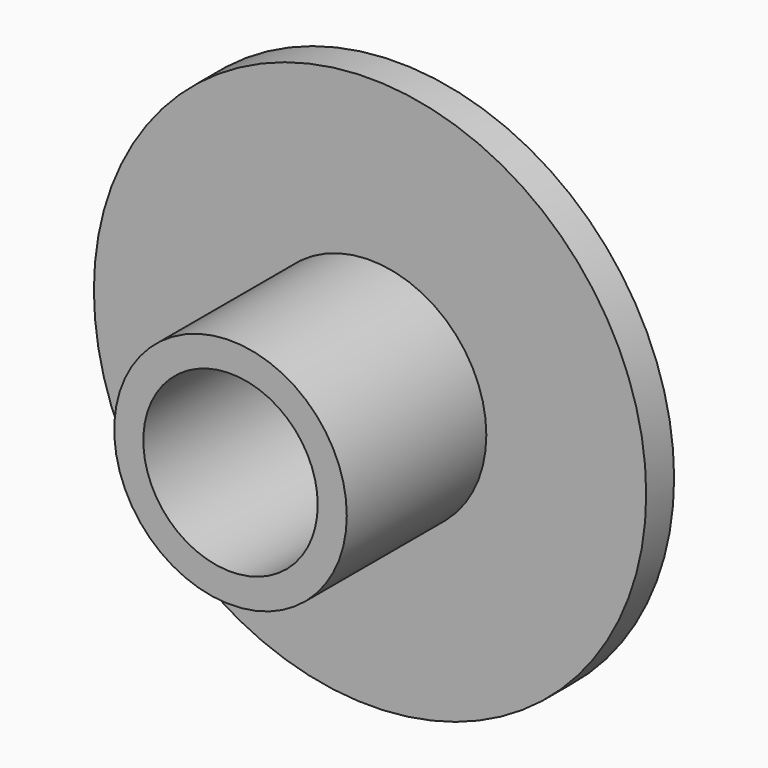
from build123d import *

# Parameters (mm, degrees)
F0_R          = 9.5
F0_R_2        = 4
F1_DEPTH      = 1.2
F0_R_3        = 3
F2_DEPTH      = 6
F2_DEPTH_BACK = 1.2


with BuildPart() as f1:
    # F0 (on Front) → F1 (new body)
    with BuildSketch(Plane.XZ):
        Circle(F0_R)
        Circle(F0_R_2, mode=Mode.SUBTRACT)
    extrude(amount=-F1_DEPTH)

    # F0 (on Front) → F2 (join, two sides)
    with BuildSketch(Plane.XZ) as f2_sk:
        Circle(F0_R_2)
        Circle(F0_R_3, mode=Mode.SUBTRACT)
    extrude(amount=F2_DEPTH)
    extrude(f2_sk.sketch, amount=-F2_DEPTH_BACK)


solid = f1.part
